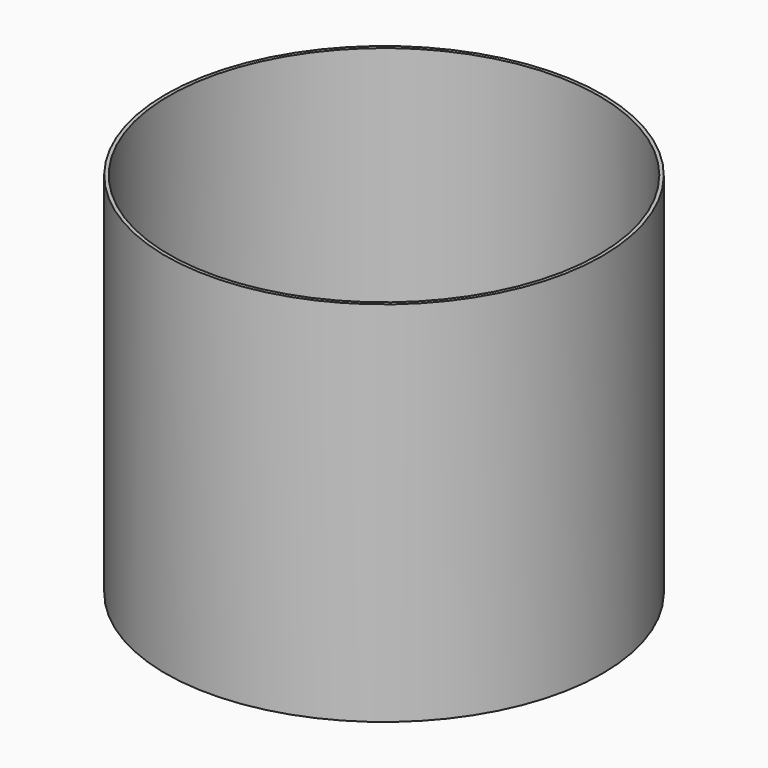
from build123d import *

# Parameters (mm, degrees)
F0_R     = 75
F1_DEPTH = 1.2
F2_R     = 75
F2_R_2   = 73.8
F3_DEPTH = 125
F5_R     = 72.8
F6_DEPTH = 1.6
F7_SIZE  = 1
F8_R     = 5
F9_DEPTH = 25
F10_SIZE = 3


with BuildPart() as f1:
    # F0 (on Top) → F1 (new body)
    with BuildSketch(Plane.XY):
        Circle(F0_R)
    extrude(amount=F1_DEPTH)

    # F2 (on face) → F3 (join)
    with BuildSketch(Plane.XY.offset(1.2)):
        Circle(F2_R)
        Circle(F2_R_2, mode=Mode.SUBTRACT)
    extrude(amount=F3_DEPTH)


with BuildPart() as f6:
    # F5 (on offset) → F6 (new body)
    with BuildSketch(Plane.XY.offset(25)):
        Circle(F5_R)
        with BuildLine():
            Line((-8, -67.3263692768), (-6.8200589971, -57.3962263156))
            ThreePointArc((-6.8200589971, -57.3962263156), (0, -57.8), (6.8200589971, -57.3962263156))
            Line((6.8200589971, -57.3962263156), (8, -67.3263692768))
            ThreePointArc((8, -67.3263692768), (0, -67.8), (-8, -67.3263692768))
        make_face(mode=Mode.SUBTRACT)
        with BuildLine():
            Line((-40.5913878687, -54.3063461383), (-34.6044575046, -46.2965605722))
            ThreePointArc((-34.6044575046, -46.2965605722), (-28.9, -50.0562683387), (-22.7917688111, -53.1166195692))
            Line((-22.7917688111, -53.1166195692), (-26.7349814081, -62.3063461383))
            ThreePointArc((-26.7349814081, -62.3063461383), (-33.9, -58.7165223766), (-40.5913878687, -54.3063461383))
        make_face(mode=Mode.SUBTRACT)
        with BuildLine():
            Line((-31.6109923225, -42.2916677891), (-25.6240619584, -34.281882223))
            ThreePointArc((-25.6240619584, -34.281882223), (-21.4, -37.065887282), (-16.8769499155, -39.3320297156))
            Line((-16.8769499155, -39.3320297156), (-20.8201625125, -48.5217562847))
            ThreePointArc((-20.8201625125, -48.5217562847), (-26.4, -45.7261413198), (-31.6109923225, -42.2916677891))
        make_face(mode=Mode.SUBTRACT)
        with BuildLine():
            Line((-6.2300884956, -52.4311548351), (-5.0501474926, -42.5010118739))
            ThreePointArc((-5.0501474926, -42.5010118739), (0, -42.8), (5.0501474926, -42.5010118739))
            Line((5.0501474926, -42.5010118739), (6.2300884956, -52.4311548351))
            ThreePointArc((6.2300884956, -52.4311548351), (0, -52.8), (-6.2300884956, -52.4311548351))
        make_face(mode=Mode.SUBTRACT)
        with BuildLine():
            Line((-62.3063461383, -26.7349814081), (-53.1166195692, -22.7917688111))
            ThreePointArc((-53.1166195692, -22.7917688111), (-50.0562683387, -28.9), (-46.2965605722, -34.6044575046))
            Line((-46.2965605722, -34.6044575046), (-54.3063461383, -40.5913878687))
            ThreePointArc((-54.3063461383, -40.5913878687), (-58.7165223766, -33.9), (-62.3063461383, -26.7349814081))
        make_face(mode=Mode.SUBTRACT)
        with BuildLine():
            Line((-48.5217562847, -20.8201625125), (-39.3320297156, -16.8769499155))
            ThreePointArc((-39.3320297156, -16.8769499155), (-37.065887282, -21.4), (-34.281882223, -25.6240619584))
            Line((-34.281882223, -25.6240619584), (-42.2916677891, -31.6109923225))
            ThreePointArc((-42.2916677891, -31.6109923225), (-45.7261413198, -26.4), (-48.5217562847, -20.8201625125))
        make_face(mode=Mode.SUBTRACT)
        with BuildLine():
            Line((-67.3263692768, 8), (-57.3962263156, 6.8200589971))
            ThreePointArc((-57.3962263156, 6.8200589971), (-57.8, 0), (-57.3962263156, -6.8200589971))
            Line((-57.3962263156, -6.8200589971), (-67.3263692768, -8))
            ThreePointArc((-67.3263692768, -8), (-67.8, 0), (-67.3263692768, 8))
        make_face(mode=Mode.SUBTRACT)
        with BuildLine():
            Line((-52.4311548351, 6.2300884956), (-42.5010118739, 5.0501474926))
            ThreePointArc((-42.5010118739, 5.0501474926), (-42.8, 0), (-42.5010118739, -5.0501474926))
            Line((-42.5010118739, -5.0501474926), (-52.4311548351, -6.2300884956))
            ThreePointArc((-52.4311548351, -6.2300884956), (-52.8, 0), (-52.4311548351, 6.2300884956))
        make_face(mode=Mode.SUBTRACT)
        with BuildLine():
            ThreePointArc((-14.9053436169, -34.7371664311), (-18.9, -32.7357602631), (-22.6305967763, -30.2769894399))
            Line((-22.6305967763, -30.2769894399), (-16.6436664122, -22.2672038738))
            ThreePointArc((-16.6436664122, -22.2672038738), (-13.9, -24.0755062252), (-10.9621310199, -25.547439862))
            Line((-10.9621310199, -25.547439862), (-14.9053436169, -34.7371664311))
        make_face(mode=Mode.SUBTRACT)
        with BuildLine():
            ThreePointArc((4.4601769912, -37.5359403933), (0, -37.8), (-4.4601769912, -37.5359403933))
            Line((-4.4601769912, -37.5359403933), (-3.2802359882, -27.6057974321))
            ThreePointArc((-3.2802359882, -27.6057974321), (0, -27.8), (3.2802359882, -27.6057974321))
            Line((3.2802359882, -27.6057974321), (4.4601769912, -37.5359403933))
        make_face(mode=Mode.SUBTRACT)
        with BuildLine():
            ThreePointArc((-30.2769894399, -22.6305967763), (-32.7357602631, -18.9), (-34.7371664311, -14.9053436169))
            Line((-34.7371664311, -14.9053436169), (-25.547439862, -10.9621310199))
            ThreePointArc((-25.547439862, -10.9621310199), (-24.0755062252, -13.9), (-22.2672038738, -16.6436664122))
            Line((-22.2672038738, -16.6436664122), (-30.2769894399, -22.6305967763))
        make_face(mode=Mode.SUBTRACT)
        with BuildLine():
            ThreePointArc((-37.5359403933, -4.4601769912), (-37.8, 0), (-37.5359403933, 4.4601769912))
            Line((-37.5359403933, 4.4601769912), (-27.6057974321, 3.2802359882))
            ThreePointArc((-27.6057974321, 3.2802359882), (-27.8, 0), (-27.6057974321, -3.2802359882))
            Line((-27.6057974321, -3.2802359882), (-37.5359403933, -4.4601769912))
        make_face(mode=Mode.SUBTRACT)
        with BuildLine():
            ThreePointArc((-8.9905247213, -20.9525765775), (-11.4, -19.7453792063), (-13.6502012302, -18.2623110908))
            Line((-13.6502012302, -18.2623110908), (-7.6632708661, -10.2525255246))
            ThreePointArc((-7.6632708661, -10.2525255246), (-6.4, -11.0851251684), (-5.0473121243, -11.7628500084))
            Line((-5.0473121243, -11.7628500084), (-8.9905247213, -20.9525765775))
        make_face(mode=Mode.SUBTRACT)
        with BuildLine():
            ThreePointArc((-18.2623110908, -13.6502012302), (-19.7453792063, -11.4), (-20.9525765775, -8.9905247213))
            Line((-20.9525765775, -8.9905247213), (-11.7628500084, -5.0473121243))
            ThreePointArc((-11.7628500084, -5.0473121243), (-11.0851251684, -6.4), (-10.2525255246, -7.6632708661))
            Line((-10.2525255246, -7.6632708661), (-18.2623110908, -13.6502012302))
        make_face(mode=Mode.SUBTRACT)
        with BuildLine():
            ThreePointArc((2.6902654867, -22.6407259515), (0, -22.8), (-2.6902654867, -22.6407259515))
            Line((-2.6902654867, -22.6407259515), (-1.5103244838, -12.7105829903))
            ThreePointArc((-1.5103244838, -12.7105829903), (0, -12.8), (1.5103244838, -12.7105829903))
            Line((1.5103244838, -12.7105829903), (2.6902654867, -22.6407259515))
        make_face(mode=Mode.SUBTRACT)
        with BuildLine():
            ThreePointArc((-22.6407259515, -2.6902654867), (-22.8, 0), (-22.6407259515, 2.6902654867))
            Line((-22.6407259515, 2.6902654867), (-12.7105829903, 1.5103244838))
            ThreePointArc((-12.7105829903, 1.5103244838), (-12.8, 0), (-12.7105829903, -1.5103244838))
            Line((-12.7105829903, -1.5103244838), (-22.6407259515, -2.6902654867))
        make_face(mode=Mode.SUBTRACT)
        with BuildLine():
            Line((26.7349814081, -62.3063461383), (22.7917688111, -53.1166195692))
            ThreePointArc((22.7917688111, -53.1166195692), (28.9, -50.0562683387), (34.6044575046, -46.2965605722))
            Line((34.6044575046, -46.2965605722), (40.5913878687, -54.3063461383))
            ThreePointArc((40.5913878687, -54.3063461383), (33.9, -58.7165223766), (26.7349814081, -62.3063461383))
        make_face(mode=Mode.SUBTRACT)
        with BuildLine():
            Line((20.8201625125, -48.5217562847), (16.8769499155, -39.3320297156))
            ThreePointArc((16.8769499155, -39.3320297156), (21.4, -37.065887282), (25.6240619584, -34.281882223))
            Line((25.6240619584, -34.281882223), (31.6109923225, -42.2916677891))
            ThreePointArc((31.6109923225, -42.2916677891), (26.4, -45.7261413198), (20.8201625125, -48.5217562847))
        make_face(mode=Mode.SUBTRACT)
        with BuildLine():
            ThreePointArc((22.6305967763, -30.2769894399), (18.9, -32.7357602631), (14.9053436169, -34.7371664311))
            Line((14.9053436169, -34.7371664311), (10.9621310199, -25.547439862))
            ThreePointArc((10.9621310199, -25.547439862), (13.9, -24.0755062252), (16.6436664122, -22.2672038738))
            Line((16.6436664122, -22.2672038738), (22.6305967763, -30.2769894399))
        make_face(mode=Mode.SUBTRACT)
        with BuildLine():
            ThreePointArc((13.6502012302, -18.2623110908), (11.4, -19.7453792063), (8.9905247213, -20.9525765775))
            Line((8.9905247213, -20.9525765775), (5.0473121243, -11.7628500084))
            ThreePointArc((5.0473121243, -11.7628500084), (6.4, -11.0851251684), (7.6632708661, -10.2525255246))
            Line((7.6632708661, -10.2525255246), (13.6502012302, -18.2623110908))
        make_face(mode=Mode.SUBTRACT)
        with BuildLine():
            ThreePointArc((20.9525765775, -8.9905247213), (19.7453792063, -11.4), (18.2623110908, -13.6502012302))
            Line((18.2623110908, -13.6502012302), (10.2525255246, -7.6632708661))
            ThreePointArc((10.2525255246, -7.6632708661), (11.0851251684, -6.4), (11.7628500084, -5.0473121243))
            Line((11.7628500084, -5.0473121243), (20.9525765775, -8.9905247213))
        make_face(mode=Mode.SUBTRACT)
        with BuildLine():
            ThreePointArc((22.6407259515, 2.6902654867), (22.8, 0), (22.6407259515, -2.6902654867))
            Line((22.6407259515, -2.6902654867), (12.7105829903, -1.5103244838))
            ThreePointArc((12.7105829903, -1.5103244838), (12.8, 0), (12.7105829903, 1.5103244838))
            Line((12.7105829903, 1.5103244838), (22.6407259515, 2.6902654867))
        make_face(mode=Mode.SUBTRACT)
        with BuildLine():
            ThreePointArc((34.7371664311, -14.9053436169), (32.7357602631, -18.9), (30.2769894399, -22.6305967763))
            Line((30.2769894399, -22.6305967763), (22.2672038738, -16.6436664122))
            ThreePointArc((22.2672038738, -16.6436664122), (24.0755062252, -13.9), (25.547439862, -10.9621310199))
            Line((25.547439862, -10.9621310199), (34.7371664311, -14.9053436169))
        make_face(mode=Mode.SUBTRACT)
        with BuildLine():
            ThreePointArc((37.5359403933, 4.4601769912), (37.8, 0), (37.5359403933, -4.4601769912))
            Line((37.5359403933, -4.4601769912), (27.6057974321, -3.2802359882))
            ThreePointArc((27.6057974321, -3.2802359882), (27.8, 0), (27.6057974321, 3.2802359882))
            Line((27.6057974321, 3.2802359882), (37.5359403933, 4.4601769912))
        make_face(mode=Mode.SUBTRACT)
        with BuildLine():
            Line((54.3063461383, -40.5913878687), (46.2965605722, -34.6044575046))
            ThreePointArc((46.2965605722, -34.6044575046), (50.0562683387, -28.9), (53.1166195692, -22.7917688111))
            Line((53.1166195692, -22.7917688111), (62.3063461383, -26.7349814081))
            ThreePointArc((62.3063461383, -26.7349814081), (58.7165223766, -33.9), (54.3063461383, -40.5913878687))
        make_face(mode=Mode.SUBTRACT)
        with BuildLine():
            Line((42.2916677891, -31.6109923225), (34.281882223, -25.6240619584))
            ThreePointArc((34.281882223, -25.6240619584), (37.065887282, -21.4), (39.3320297156, -16.8769499155))
            Line((39.3320297156, -16.8769499155), (48.5217562847, -20.8201625125))
            ThreePointArc((48.5217562847, -20.8201625125), (45.7261413198, -26.4), (42.2916677891, -31.6109923225))
        make_face(mode=Mode.SUBTRACT)
        with BuildLine():
            Line((52.4311548351, -6.2300884956), (42.5010118739, -5.0501474926))
            ThreePointArc((42.5010118739, -5.0501474926), (42.8, 0), (42.5010118739, 5.0501474926))
            Line((42.5010118739, 5.0501474926), (52.4311548351, 6.2300884956))
            ThreePointArc((52.4311548351, 6.2300884956), (52.8, 0), (52.4311548351, -6.2300884956))
        make_face(mode=Mode.SUBTRACT)
        with BuildLine():
            Line((67.3263692768, -8), (57.3962263156, -6.8200589971))
            ThreePointArc((57.3962263156, -6.8200589971), (57.8, 0), (57.3962263156, 6.8200589971))
            Line((57.3962263156, 6.8200589971), (67.3263692768, 8))
            ThreePointArc((67.3263692768, 8), (67.8, 0), (67.3263692768, -8))
        make_face(mode=Mode.SUBTRACT)
        with BuildLine():
            Line((-42.2916677891, 31.6109923225), (-34.281882223, 25.6240619584))
            ThreePointArc((-34.281882223, 25.6240619584), (-37.065887282, 21.4), (-39.3320297156, 16.8769499155))
            Line((-39.3320297156, 16.8769499155), (-48.5217562847, 20.8201625125))
            ThreePointArc((-48.5217562847, 20.8201625125), (-45.7261413198, 26.4), (-42.2916677891, 31.6109923225))
        make_face(mode=Mode.SUBTRACT)
        with BuildLine():
            Line((-54.3063461383, 40.5913878687), (-46.2965605722, 34.6044575046))
            ThreePointArc((-46.2965605722, 34.6044575046), (-50.0562683387, 28.9), (-53.1166195692, 22.7917688111))
            Line((-53.1166195692, 22.7917688111), (-62.3063461383, 26.7349814081))
            ThreePointArc((-62.3063461383, 26.7349814081), (-58.7165223766, 33.9), (-54.3063461383, 40.5913878687))
        make_face(mode=Mode.SUBTRACT)
        with BuildLine():
            ThreePointArc((-34.7371664311, 14.9053436169), (-32.7357602631, 18.9), (-30.2769894399, 22.6305967763))
            Line((-30.2769894399, 22.6305967763), (-22.2672038738, 16.6436664122))
            ThreePointArc((-22.2672038738, 16.6436664122), (-24.0755062252, 13.9), (-25.547439862, 10.9621310199))
            Line((-25.547439862, 10.9621310199), (-34.7371664311, 14.9053436169))
        make_face(mode=Mode.SUBTRACT)
        with BuildLine():
            ThreePointArc((-20.9525765775, 8.9905247213), (-19.7453792063, 11.4), (-18.2623110908, 13.6502012302))
            Line((-18.2623110908, 13.6502012302), (-10.2525255246, 7.6632708661))
            ThreePointArc((-10.2525255246, 7.6632708661), (-11.0851251684, 6.4), (-11.7628500084, 5.0473121243))
            Line((-11.7628500084, 5.0473121243), (-20.9525765775, 8.9905247213))
        make_face(mode=Mode.SUBTRACT)
        with BuildLine():
            ThreePointArc((-13.6502012302, 18.2623110908), (-11.4, 19.7453792063), (-8.9905247213, 20.9525765775))
            Line((-8.9905247213, 20.9525765775), (-5.0473121243, 11.7628500084))
            ThreePointArc((-5.0473121243, 11.7628500084), (-6.4, 11.0851251684), (-7.6632708661, 10.2525255246))
            Line((-7.6632708661, 10.2525255246), (-13.6502012302, 18.2623110908))
        make_face(mode=Mode.SUBTRACT)
        with BuildLine():
            Line((2.6902654867, 22.6407259515), (1.5103244838, 12.7105829903))
            ThreePointArc((1.5103244838, 12.7105829903), (0, 12.8), (-1.5103244838, 12.7105829903))
            Line((-1.5103244838, 12.7105829903), (-2.6902654867, 22.6407259515))
            ThreePointArc((-2.6902654867, 22.6407259515), (0, 22.8), (2.6902654867, 22.6407259515))
        make_face(mode=Mode.SUBTRACT)
        with BuildLine():
            ThreePointArc((-22.6305967763, 30.2769894399), (-18.9, 32.7357602631), (-14.9053436169, 34.7371664311))
            Line((-14.9053436169, 34.7371664311), (-10.9621310199, 25.547439862))
            ThreePointArc((-10.9621310199, 25.547439862), (-13.9, 24.0755062252), (-16.6436664122, 22.2672038738))
            Line((-16.6436664122, 22.2672038738), (-22.6305967763, 30.2769894399))
        make_face(mode=Mode.SUBTRACT)
        with BuildLine():
            ThreePointArc((-4.4601769912, 37.5359403933), (0, 37.8), (4.4601769912, 37.5359403933))
            Line((4.4601769912, 37.5359403933), (3.2802359882, 27.6057974321))
            ThreePointArc((3.2802359882, 27.6057974321), (0, 27.8), (-3.2802359882, 27.6057974321))
            Line((-3.2802359882, 27.6057974321), (-4.4601769912, 37.5359403933))
        make_face(mode=Mode.SUBTRACT)
        with BuildLine():
            Line((-20.8201625125, 48.5217562847), (-16.8769499155, 39.3320297156))
            ThreePointArc((-16.8769499155, 39.3320297156), (-21.4, 37.065887282), (-25.6240619584, 34.281882223))
            Line((-25.6240619584, 34.281882223), (-31.6109923225, 42.2916677891))
            ThreePointArc((-31.6109923225, 42.2916677891), (-26.4, 45.7261413198), (-20.8201625125, 48.5217562847))
        make_face(mode=Mode.SUBTRACT)
        with BuildLine():
            Line((-26.7349814081, 62.3063461383), (-22.7917688111, 53.1166195692))
            ThreePointArc((-22.7917688111, 53.1166195692), (-28.9, 50.0562683387), (-34.6044575046, 46.2965605722))
            Line((-34.6044575046, 46.2965605722), (-40.5913878687, 54.3063461383))
            ThreePointArc((-40.5913878687, 54.3063461383), (-33.9, 58.7165223766), (-26.7349814081, 62.3063461383))
        make_face(mode=Mode.SUBTRACT)
        with BuildLine():
            ThreePointArc((-6.2300884956, 52.4311548351), (0, 52.8), (6.2300884956, 52.4311548351))
            Line((6.2300884956, 52.4311548351), (5.0501474926, 42.5010118739))
            ThreePointArc((5.0501474926, 42.5010118739), (0, 42.8), (-5.0501474926, 42.5010118739))
            Line((-5.0501474926, 42.5010118739), (-6.2300884956, 52.4311548351))
        make_face(mode=Mode.SUBTRACT)
        with BuildLine():
            ThreePointArc((-8, 67.3263692768), (0, 67.8), (8, 67.3263692768))
            Line((8, 67.3263692768), (6.8200589971, 57.3962263156))
            ThreePointArc((6.8200589971, 57.3962263156), (0, 57.8), (-6.8200589971, 57.3962263156))
            Line((-6.8200589971, 57.3962263156), (-8, 67.3263692768))
        make_face(mode=Mode.SUBTRACT)
        with BuildLine():
            ThreePointArc((18.2623110908, 13.6502012302), (19.7453792063, 11.4), (20.9525765775, 8.9905247213))
            Line((20.9525765775, 8.9905247213), (11.7628500084, 5.0473121243))
            ThreePointArc((11.7628500084, 5.0473121243), (11.0851251684, 6.4), (10.2525255246, 7.6632708661))
            Line((10.2525255246, 7.6632708661), (18.2623110908, 13.6502012302))
        make_face(mode=Mode.SUBTRACT)
        with BuildLine():
            ThreePointArc((8.9905247213, 20.9525765775), (11.4, 19.7453792063), (13.6502012302, 18.2623110908))
            Line((13.6502012302, 18.2623110908), (7.6632708661, 10.2525255246))
            ThreePointArc((7.6632708661, 10.2525255246), (6.4, 11.0851251684), (5.0473121243, 11.7628500084))
            Line((5.0473121243, 11.7628500084), (8.9905247213, 20.9525765775))
        make_face(mode=Mode.SUBTRACT)
        with BuildLine():
            ThreePointArc((30.2769894399, 22.6305967763), (32.7357602631, 18.9), (34.7371664311, 14.9053436169))
            Line((34.7371664311, 14.9053436169), (25.547439862, 10.9621310199))
            ThreePointArc((25.547439862, 10.9621310199), (24.0755062252, 13.9), (22.2672038738, 16.6436664122))
            Line((22.2672038738, 16.6436664122), (30.2769894399, 22.6305967763))
        make_face(mode=Mode.SUBTRACT)
        with BuildLine():
            ThreePointArc((14.9053436169, 34.7371664311), (18.9, 32.7357602631), (22.6305967763, 30.2769894399))
            Line((22.6305967763, 30.2769894399), (16.6436664122, 22.2672038738))
            ThreePointArc((16.6436664122, 22.2672038738), (13.9, 24.0755062252), (10.9621310199, 25.547439862))
            Line((10.9621310199, 25.547439862), (14.9053436169, 34.7371664311))
        make_face(mode=Mode.SUBTRACT)
        with BuildLine():
            Line((48.5217562847, 20.8201625125), (39.3320297156, 16.8769499155))
            ThreePointArc((39.3320297156, 16.8769499155), (37.065887282, 21.4), (34.281882223, 25.6240619584))
            Line((34.281882223, 25.6240619584), (42.2916677891, 31.6109923225))
            ThreePointArc((42.2916677891, 31.6109923225), (45.7261413198, 26.4), (48.5217562847, 20.8201625125))
        make_face(mode=Mode.SUBTRACT)
        with BuildLine():
            Line((62.3063461383, 26.7349814081), (53.1166195692, 22.7917688111))
            ThreePointArc((53.1166195692, 22.7917688111), (50.0562683387, 28.9), (46.2965605722, 34.6044575046))
            Line((46.2965605722, 34.6044575046), (54.3063461383, 40.5913878687))
            ThreePointArc((54.3063461383, 40.5913878687), (58.7165223766, 33.9), (62.3063461383, 26.7349814081))
        make_face(mode=Mode.SUBTRACT)
        with BuildLine():
            Line((31.6109923225, 42.2916677891), (25.6240619584, 34.281882223))
            ThreePointArc((25.6240619584, 34.281882223), (21.4, 37.065887282), (16.8769499155, 39.3320297156))
            Line((16.8769499155, 39.3320297156), (20.8201625125, 48.5217562847))
            ThreePointArc((20.8201625125, 48.5217562847), (26.4, 45.7261413198), (31.6109923225, 42.2916677891))
        make_face(mode=Mode.SUBTRACT)
        with BuildLine():
            Line((40.5913878687, 54.3063461383), (34.6044575046, 46.2965605722))
            ThreePointArc((34.6044575046, 46.2965605722), (28.9, 50.0562683387), (22.7917688111, 53.1166195692))
            Line((22.7917688111, 53.1166195692), (26.7349814081, 62.3063461383))
            ThreePointArc((26.7349814081, 62.3063461383), (33.9, 58.7165223766), (40.5913878687, 54.3063461383))
        make_face(mode=Mode.SUBTRACT)
    extrude(amount=F6_DEPTH)

    # F7
    f7_edges = [f6.edges().sort_by_distance(p)[0] for p in [
        (-72.8, 0, 25),
        (7.410029, -62.361298, 25),
        (0, -67.8, 25),
        (-7.410029, -62.361298, 25),
        (0, -57.8, 25),
        (-37.597923, -50.301453, 25),
        (-28.9, -50.056268, 25),
        (-24.763375, -57.711483, 25),
        (-33.9, -58.716522, 25),
        (-18.848556, -43.926893, 25),
        (-26.4, -45.726141, 25),
        (-28.617527, -38.286775, 25),
        (-21.4, -37.065887, 25),
        (-5.640118, -47.466083, 25),
        (0, -42.8, 25),
        (5.640118, -47.466083, 25),
        (0, -52.8, 25),
        (-57.711483, -24.763375, 25),
        (-50.056268, -28.9, 25),
        (-50.301453, -37.597923, 25),
        (-58.716522, -33.9, 25),
        (-43.926893, -18.848556, 25),
        (-37.065887, -21.4, 25),
        (-38.286775, -28.617527, 25),
        (-45.726141, -26.4, 25),
        (-62.361298, 7.410029, 25),
        (-57.8, 0, 25),
        (-62.361298, -7.410029, 25),
        (-67.8, 0, 25),
        (-52.8, 0, 25),
        (-47.466083, 5.640118, 25),
        (-42.8, 0, 25),
        (-47.466083, -5.640118, 25),
        (-12.933737, -30.142303, 25),
        (-18.9, -32.73576, 25),
        (-19.637132, -26.272097, 25),
        (-13.9, -24.075506, 25),
        (0, -37.8, 25),
        (-3.870206, -32.570869, 25),
        (0, -27.8, 25),
        (3.870206, -32.570869, 25),
        (-24.075506, -13.9, 25),
        (-26.272097, -19.637132, 25),
        (-32.73576, -18.9, 25),
        (-30.142303, -12.933737, 25),
        (-32.570869, -3.870206, 25),
        (-37.8, 0, 25),
        (-32.570869, 3.870206, 25),
        (-27.8, 0, 25),
        (-7.018918, -16.357713, 25),
        (-11.4, -19.745379, 25),
        (-10.656736, -14.257418, 25),
        (-6.4, -11.085125, 25),
        (-11.085125, -6.4, 25),
        (-14.257418, -10.656736, 25),
        (-19.745379, -11.4, 25),
        (-16.357713, -7.018918, 25),
        (0, -12.8, 25),
        (2.100295, -17.675654, 25),
        (0, -22.8, 25),
        (-2.100295, -17.675654, 25),
        (-12.8, 0, 25),
        (-17.675654, -2.100295, 25),
        (-22.8, 0, 25),
        (-17.675654, 2.100295, 25),
        (33.9, -58.716522, 25),
        (24.763375, -57.711483, 25),
        (28.9, -50.056268, 25),
        (37.597923, -50.301453, 25),
        (26.4, -45.726141, 25),
        (18.848556, -43.926893, 25),
        (21.4, -37.065887, 25),
        (28.617527, -38.286775, 25),
        (18.9, -32.73576, 25),
        (12.933737, -30.142303, 25),
        (13.9, -24.075506, 25),
        (19.637132, -26.272097, 25),
        (10.656736, -14.257418, 25),
        (11.4, -19.745379, 25),
        (7.018918, -16.357713, 25),
        (6.4, -11.085125, 25),
        (11.085125, -6.4, 25),
        (16.357713, -7.018918, 25),
        (19.745379, -11.4, 25),
        (14.257418, -10.656736, 25),
        (22.8, 0, 25),
        (17.675654, -2.100295, 25),
        (12.8, 0, 25),
        (17.675654, 2.100295, 25),
        (32.73576, -18.9, 25),
        (26.272097, -19.637132, 25),
        (24.075506, -13.9, 25),
        (30.142303, -12.933737, 25),
        (32.570869, -3.870206, 25),
        (27.8, 0, 25),
        (32.570869, 3.870206, 25),
        (37.8, 0, 25),
        (57.711483, -24.763375, 25),
        (58.716522, -33.9, 25),
        (50.301453, -37.597923, 25),
        (50.056268, -28.9, 25),
        (45.726141, -26.4, 25),
        (38.286775, -28.617527, 25),
        (37.065887, -21.4, 25),
        (43.926893, -18.848556, 25),
        (52.8, 0, 25),
        (47.466083, -5.640118, 25),
        (42.8, 0, 25),
        (47.466083, 5.640118, 25),
        (62.361298, 7.410029, 25),
        (67.8, 0, 25),
        (62.361298, -7.410029, 25),
        (57.8, 0, 25),
        (-38.286775, 28.617527, 25),
        (-37.065887, 21.4, 25),
        (-43.926893, 18.848556, 25),
        (-45.726141, 26.4, 25),
        (-57.711483, 24.763375, 25),
        (-58.716522, 33.9, 25),
        (-50.301453, 37.597923, 25),
        (-50.056268, 28.9, 25),
        (-30.142303, 12.933737, 25),
        (-32.73576, 18.9, 25),
        (-26.272097, 19.637132, 25),
        (-24.075506, 13.9, 25),
        (-16.357713, 7.018918, 25),
        (-19.745379, 11.4, 25),
        (-14.257418, 10.656736, 25),
        (-11.085125, 6.4, 25),
        (-6.4, 11.085125, 25),
        (-10.656736, 14.257418, 25),
        (-11.4, 19.745379, 25),
        (-7.018918, 16.357713, 25),
        (-2.100295, 17.675654, 25),
        (0, 22.8, 25),
        (2.100295, 17.675654, 25),
        (0, 12.8, 25),
        (-18.9, 32.73576, 25),
        (-12.933737, 30.142303, 25),
        (-13.9, 24.075506, 25),
        (-19.637132, 26.272097, 25),
        (3.870206, 32.570869, 25),
        (0, 27.8, 25),
        (-3.870206, 32.570869, 25),
        (0, 37.8, 25),
        (-26.4, 45.726141, 25),
        (-18.848556, 43.926893, 25),
        (-21.4, 37.065887, 25),
        (-28.617527, 38.286775, 25),
        (-24.763375, 57.711483, 25),
        (-28.9, 50.056268, 25),
        (-37.597923, 50.301453, 25),
        (-33.9, 58.716522, 25),
        (0, 42.8, 25),
        (-5.640118, 47.466083, 25),
        (0, 52.8, 25),
        (5.640118, 47.466083, 25),
        (0, 57.8, 25),
        (-7.410029, 62.361298, 25),
        (0, 67.8, 25),
        (7.410029, 62.361298, 25),
        (14.257418, 10.656736, 25),
        (19.745379, 11.4, 25),
        (16.357713, 7.018918, 25),
        (11.085125, 6.4, 25),
        (7.018918, 16.357713, 25),
        (11.4, 19.745379, 25),
        (10.656736, 14.257418, 25),
        (6.4, 11.085125, 25),
        (24.075506, 13.9, 25),
        (26.272097, 19.637132, 25),
        (32.73576, 18.9, 25),
        (30.142303, 12.933737, 25),
        (18.9, 32.73576, 25),
        (19.637132, 26.272097, 25),
        (13.9, 24.075506, 25),
        (12.933737, 30.142303, 25),
        (45.726141, 26.4, 25),
        (43.926893, 18.848556, 25),
        (37.065887, 21.4, 25),
        (38.286775, 28.617527, 25),
        (50.301453, 37.597923, 25),
        (58.716522, 33.9, 25),
        (57.711483, 24.763375, 25),
        (50.056268, 28.9, 25),
        (28.617527, 38.286775, 25),
        (21.4, 37.065887, 25),
        (18.848556, 43.926893, 25),
        (26.4, 45.726141, 25),
        (37.597923, 50.301453, 25),
        (28.9, 50.056268, 25),
        (24.763375, 57.711483, 25),
        (33.9, 58.716522, 25),
    ]]
    chamfer(f7_edges, length=F7_SIZE)

    # F8 (on face) → F9 (join)
    with BuildSketch(Plane.XY.offset(26.6)):
        with BuildLine():
            ThreePointArc((14.8645022979, 55.4750778051), (19.2024046685, 56.337940235), (21.1585975234, 60.3047069365))
            ThreePointArc((21.1585975234, 60.3047069365), (13.1147903784, 64.271473638), (14.8645022979, 55.4750778051))
        make_face()
        with Locations((-44.1461094131, 44.1461094131)):
            Circle(F8_R)
        with Locations((-60.3047069365, -16.1585975234)):
            Circle(F8_R)
        with Locations((-16.1585975234, -60.3047069365)):
            Circle(F8_R)
        with Locations((44.1461094131, -44.1461094131)):
            Circle(F8_R)
        with Locations((60.3047069365, 16.1585975234)):
            Circle(F8_R)
    extrude(amount=F9_DEPTH)

    # F10
    f10_edges = [f6.edges().sort_by_distance(p)[0] for p in [
        (-49.146109, 44.146109, 51.6),
        (11.158598, 60.304707, 51.6),
        (55.304707, 16.158598, 51.6),
        (39.146109, -44.146109, 51.6),
        (-21.158598, -60.304707, 51.6),
        (-65.304707, -16.158598, 51.6),
    ]]
    chamfer(f10_edges, length=F10_SIZE)


solid = Compound([f1.part, f6.part])
